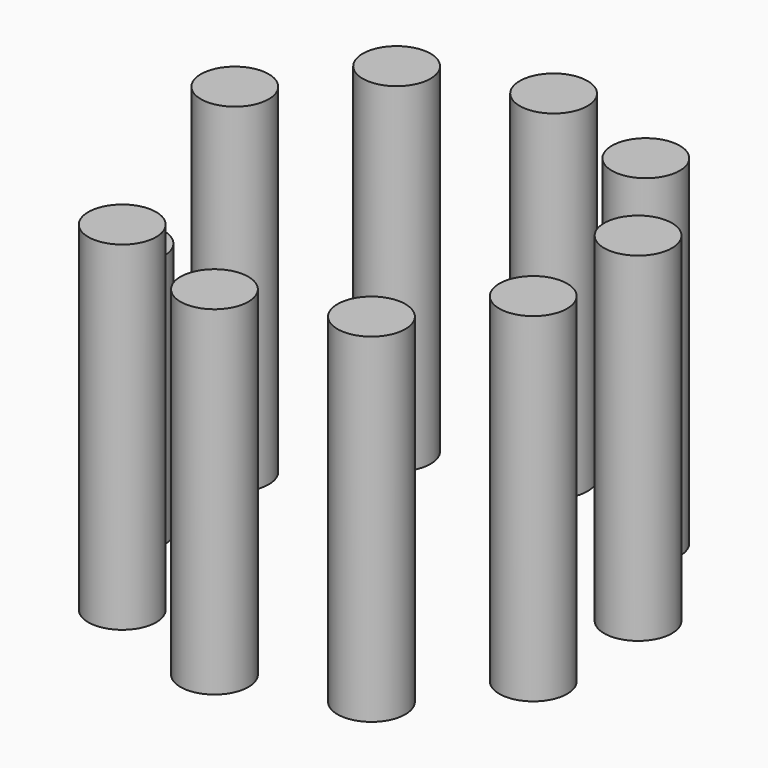
from build123d import *

# Parameters (mm, degrees)
F0_R     = 31.75
F1_DEPTH = 38.1
F2_R     = 5.08
F3_DEPTH = 50.8


with BuildPart() as f1:
    # F0 (on Top) → F1 (new body)
    with BuildSketch(Plane.XY):
        Circle(F0_R)
    extrude(amount=F1_DEPTH)


with BuildPart() as f3:
    # F2 (on Top) → F3 (new body)
    with BuildSketch(Plane.XY):
        with Locations((0, 31.75)):
            Circle(F2_R)
    extrude(amount=F3_DEPTH)


with BuildPart() as f3b:
    # F2 (on Top) → F3, piece 2 (new body)
    with BuildSketch(Plane.XY):
        with Locations((-18.6621817603, 25.6862895714)):
            Circle(F2_R)
    extrude(amount=F3_DEPTH)


with BuildPart() as f3c:
    # F2 (on Top) → F3, piece 3 (new body)
    with BuildSketch(Plane.XY):
        with Locations((-30.1960443924, 9.8112895714)):
            Circle(F2_R)
    extrude(amount=F3_DEPTH)


with BuildPart() as f3d:
    # F2 (on Top) → F3, piece 4 (new body)
    with BuildSketch(Plane.XY):
        with Locations((-30.1960443924, -9.8112895714)):
            Circle(F2_R)
    extrude(amount=F3_DEPTH)

    # F4: intersect F1
    add(f1.part, mode=Mode.INTERSECT)


with BuildPart() as f3e:
    # F2 (on Top) → F3, piece 5 (new body)
    with BuildSketch(Plane.XY):
        with Locations((-18.6621817603, -25.6862895714)):
            Circle(F2_R)
    extrude(amount=F3_DEPTH)


with BuildPart() as f3f:
    # F2 (on Top) → F3, piece 6 (new body)
    with BuildSketch(Plane.XY):
        with Locations((0, -31.75)):
            Circle(F2_R)
    extrude(amount=F3_DEPTH)


with BuildPart() as f3g:
    # F2 (on Top) → F3, piece 7 (new body)
    with BuildSketch(Plane.XY):
        with Locations((18.6621817603, -25.6862895714)):
            Circle(F2_R)
    extrude(amount=F3_DEPTH)


with BuildPart() as f3h:
    # F2 (on Top) → F3, piece 8 (new body)
    with BuildSketch(Plane.XY):
        with Locations((30.1960443924, -9.8112895714)):
            Circle(F2_R)
    extrude(amount=F3_DEPTH)


with BuildPart() as f3i:
    # F2 (on Top) → F3, piece 9 (new body)
    with BuildSketch(Plane.XY):
        with Locations((30.1960443924, 9.8112895714)):
            Circle(F2_R)
    extrude(amount=F3_DEPTH)


with BuildPart() as f3j:
    # F2 (on Top) → F3, piece 10 (new body)
    with BuildSketch(Plane.XY):
        with Locations((18.6621817603, 25.6862895714)):
            Circle(F2_R)
    extrude(amount=F3_DEPTH)


solid = Compound([f3.part, f3b.part, f3c.part, f3d.part, f3e.part, f3f.part, f3g.part, f3h.part, f3i.part, f3j.part])
